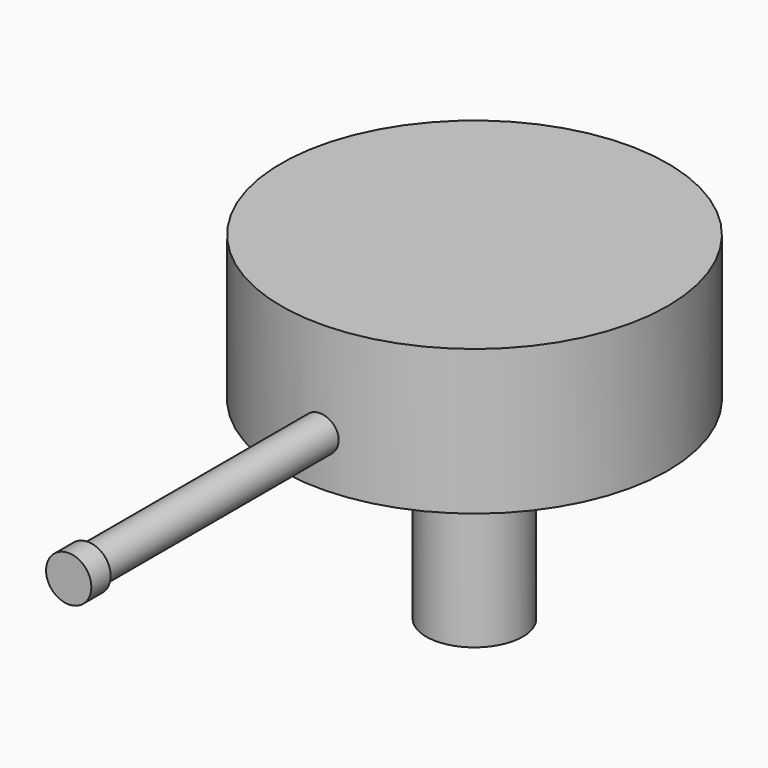
from build123d import *

# Parameters (mm, degrees)
F0_R      = 25.4
F1_DEPTH  = 19.05
F2_R      = 25.4
F2_R_2    = 22.225
F3_DEPTH  = 3.175
F4_R      = 2.38125
F5_DEPTH  = 63.5
F6_R      = 2.9763912457
F6_R_2    = 2.38125
F7_DEPTH  = 3.175
F8_R      = 22.6060003042
F9_DEPTH  = 3.175
F10_R     = 6.35
F11_DEPTH = 25.4


with BuildPart() as f1:
    # F0 (on Top) → F1 (new body)
    with BuildSketch(Plane.XY):
        Circle(F0_R)
    extrude(amount=F1_DEPTH)

    # F2 (on face) → F3 (join)
    with BuildSketch(Plane.XY.offset(19.05)):
        Circle(F2_R)
        Circle(F2_R_2, mode=Mode.SUBTRACT)
    extrude(amount=-F3_DEPTH)

    # F4 (on Front) → F5 (join)
    with BuildSketch(Plane.XZ):
        with Locations((0, 6.35)):
            Circle(F4_R)
    extrude(amount=F5_DEPTH)

    # F6 (on face) → F7 (join)
    with BuildSketch(Plane.XZ.offset(63.5)):
        with Locations((0, 6.35)):
            Circle(F6_R)
        with Locations((0, 6.35)):
            Circle(F6_R_2, mode=Mode.SUBTRACT)
        with Locations((0, 6.35)):
            Circle(F6_R_2)
    extrude(amount=F7_DEPTH)

    # F8 (on face) → F9 (join)
    with BuildSketch(Plane.XY.offset(19.05)):
        Circle(F8_R)
    extrude(amount=-F9_DEPTH)

    # F10 (on face) → F11 (join)
    with BuildSketch(Plane(origin=(0, 0, 0), x_dir=(1, 0, 0), z_dir=(0, 0, -1))):
        Circle(F10_R)
    extrude(amount=F11_DEPTH)


solid = f1.part
